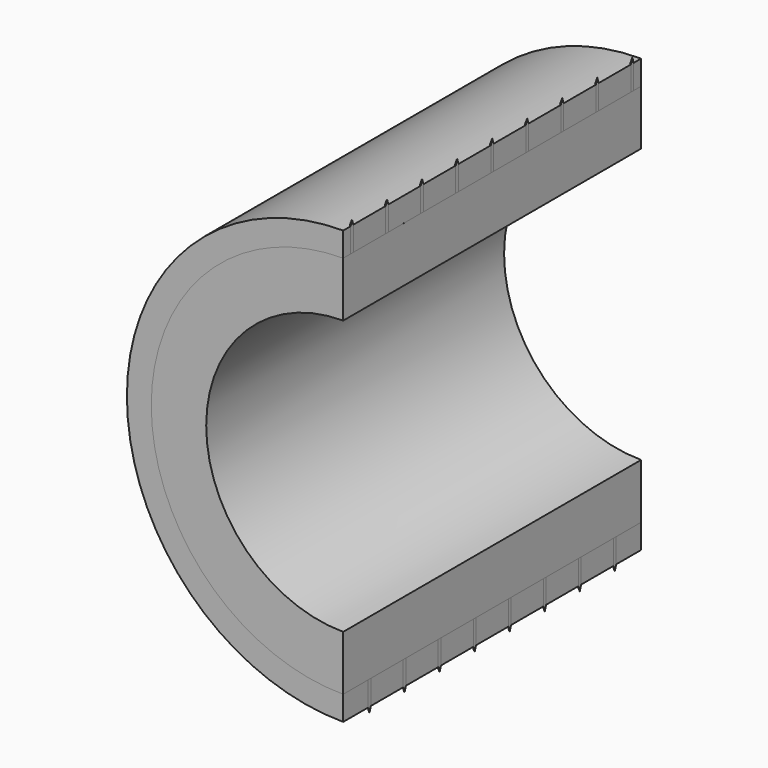
from build123d import *

# Parameters (mm, degrees)
F0_R           = 35.052
F0_R_2         = 25.019
F1_DEPTH       = 34
F2_R           = 39.5
F2_R_2         = 35.052
F3_DEPTH       = 34
F5_R           = 0.31
F6_DEPTH       = 25.4
F7_DEPTH       = 5.45
F8_SIZE2       = 1
F8_SIZE        = 0.31
F8_2_SIZE2     = 1
F8_2_SIZE      = 0.31
F8_3_SIZE2     = 1
F8_3_SIZE      = 0.31
F8_4_SIZE2     = 1
F8_4_SIZE      = 0.31
F8_5_SIZE2     = 1
F8_5_SIZE      = 0.31
F8_6_SIZE2     = 1
F8_6_SIZE      = 0.31
F8_7_SIZE2     = 1
F8_7_SIZE      = 0.31
F8_8_SIZE2     = 1
F8_8_SIZE      = 0.31
F8_9_SIZE2     = 1
F8_9_SIZE      = 0.31
F10_R          = 0.31
F11_DEPTH      = 25.4
F12_DEPTH      = 5.45
F13_SIZE2      = 0.31
F13_SIZE       = 1
F13_2_SIZE2    = 0.31
F13_2_SIZE     = 1
F13_3_SIZE2    = 0.31
F13_3_SIZE     = 1
F13_4_SIZE2    = 0.31
F13_4_SIZE     = 1
F13_5_SIZE2    = 0.31
F13_5_SIZE     = 1
F13_6_SIZE2    = 0.31
F13_6_SIZE     = 1
F13_7_SIZE2    = 0.31
F13_7_SIZE     = 1
F13_8_SIZE2    = 0.31
F13_8_SIZE     = 1
F14_W          = 45.4238131642
F14_H          = 107.2454452515
F15_DEPTH      = 34.0010001
F15_DEPTH_BACK = 34.0010001


with BuildPart() as f1:
    # F0 (on Front) → F1 (new body, symmetric)
    with BuildSketch(Plane.XZ):
        Circle(F0_R)
        Circle(F0_R_2, mode=Mode.SUBTRACT)
    extrude(amount=F1_DEPTH, both=True)


with BuildPart() as f3:
    # F2 (on Front) → F3 (new body, symmetric)
    with BuildSketch(Plane.XZ):
        Circle(F2_R)
        Circle(F2_R_2, mode=Mode.SUBTRACT)
    extrude(amount=F3_DEPTH, both=True)

    # F5 (on offset) → F6 (cut)
    with BuildSketch(Plane.XY.offset(35.052)):
        Circle(F5_R)
        with Locations((0, 8)):
            Circle(F5_R)
        with Locations((0, 16)):
            Circle(F5_R)
        with Locations((0, 24)):
            Circle(F5_R)
        with Locations((0, 32)):
            Circle(F5_R)
        with Locations((0, -8)):
            Circle(F5_R)
        with Locations((0, -16)):
            Circle(F5_R)
        with Locations((0, -24)):
            Circle(F5_R)
        with Locations((0, -32)):
            Circle(F5_R)
    extrude(amount=F6_DEPTH, mode=Mode.SUBTRACT)

    # F10 (on offset) → F11 (cut)
    with BuildSketch(Plane.XY.offset(-35.052)):
        with Locations((0, -4)):
            Circle(F10_R)
        with Locations((0, 4)):
            Circle(F10_R)
        with Locations((0, -12)):
            Circle(F10_R)
        with Locations((0, -20)):
            Circle(F10_R)
        with Locations((0, -28)):
            Circle(F10_R)
        with Locations((0, 12)):
            Circle(F10_R)
        with Locations((0, 20)):
            Circle(F10_R)
        with Locations((0, 28)):
            Circle(F10_R)
    extrude(amount=-F11_DEPTH, mode=Mode.SUBTRACT)


with BuildPart() as f7:
    # F5 (on offset) → F7 (new body)
    with BuildSketch(Plane.XY.offset(35.052)):
        Circle(F5_R)
    extrude(amount=F7_DEPTH)

    # F8#5
    f8_5_edges = [f7.edges().sort_by_distance(p)[0] for p in [
        (-0.31, 0, 40.502),
    ]]
    f8_5_side = f7.faces().sort_by_distance((0, 0, 40.502))[0]
    chamfer(f8_5_edges, length=F8_5_SIZE, length2=F8_5_SIZE2, reference=f8_5_side)


with BuildPart() as f7b:
    # F5 (on offset) → F7, piece 2 (new body)
    with BuildSketch(Plane.XY.offset(35.052)):
        with Locations((0, 8)):
            Circle(F5_R)
    extrude(amount=F7_DEPTH)

    # F8#6
    f8_6_edges = [f7b.edges().sort_by_distance(p)[0] for p in [
        (-0.31, 8, 40.502),
    ]]
    f8_6_side = f7b.faces().sort_by_distance((0, 8, 40.502))[0]
    chamfer(f8_6_edges, length=F8_6_SIZE, length2=F8_6_SIZE2, reference=f8_6_side)


with BuildPart() as f7c:
    # F5 (on offset) → F7, piece 3 (new body)
    with BuildSketch(Plane.XY.offset(35.052)):
        with Locations((0, 16)):
            Circle(F5_R)
    extrude(amount=F7_DEPTH)

    # F8#7
    f8_7_edges = [f7c.edges().sort_by_distance(p)[0] for p in [
        (-0.31, 16, 40.502),
    ]]
    f8_7_side = f7c.faces().sort_by_distance((0, 16, 40.502))[0]
    chamfer(f8_7_edges, length=F8_7_SIZE, length2=F8_7_SIZE2, reference=f8_7_side)


with BuildPart() as f7d:
    # F5 (on offset) → F7, piece 4 (new body)
    with BuildSketch(Plane.XY.offset(35.052)):
        with Locations((0, 24)):
            Circle(F5_R)
    extrude(amount=F7_DEPTH)

    # F8#8
    f8_8_edges = [f7d.edges().sort_by_distance(p)[0] for p in [
        (-0.31, 24, 40.502),
    ]]
    f8_8_side = f7d.faces().sort_by_distance((0, 24, 40.502))[0]
    chamfer(f8_8_edges, length=F8_8_SIZE, length2=F8_8_SIZE2, reference=f8_8_side)


with BuildPart() as f7e:
    # F5 (on offset) → F7, piece 5 (new body)
    with BuildSketch(Plane.XY.offset(35.052)):
        with Locations((0, 32)):
            Circle(F5_R)
    extrude(amount=F7_DEPTH)

    # F8#9
    f8_9_edges = [f7e.edges().sort_by_distance(p)[0] for p in [
        (-0.31, 32, 40.502),
    ]]
    f8_9_side = f7e.faces().sort_by_distance((0, 32, 40.502))[0]
    chamfer(f8_9_edges, length=F8_9_SIZE, length2=F8_9_SIZE2, reference=f8_9_side)


with BuildPart() as f7f:
    # F5 (on offset) → F7, piece 6 (new body)
    with BuildSketch(Plane.XY.offset(35.052)):
        with Locations((0, -8)):
            Circle(F5_R)
    extrude(amount=F7_DEPTH)

    # F8#4
    f8_4_edges = [f7f.edges().sort_by_distance(p)[0] for p in [
        (-0.31, -8, 40.502),
    ]]
    f8_4_side = f7f.faces().sort_by_distance((0, -8, 40.502))[0]
    chamfer(f8_4_edges, length=F8_4_SIZE, length2=F8_4_SIZE2, reference=f8_4_side)


with BuildPart() as f7g:
    # F5 (on offset) → F7, piece 7 (new body)
    with BuildSketch(Plane.XY.offset(35.052)):
        with Locations((0, -16)):
            Circle(F5_R)
    extrude(amount=F7_DEPTH)

    # F8#3
    f8_3_edges = [f7g.edges().sort_by_distance(p)[0] for p in [
        (-0.31, -16, 40.502),
    ]]
    f8_3_side = f7g.faces().sort_by_distance((0, -16, 40.502))[0]
    chamfer(f8_3_edges, length=F8_3_SIZE, length2=F8_3_SIZE2, reference=f8_3_side)


with BuildPart() as f7h:
    # F5 (on offset) → F7, piece 8 (new body)
    with BuildSketch(Plane.XY.offset(35.052)):
        with Locations((0, -24)):
            Circle(F5_R)
    extrude(amount=F7_DEPTH)

    # F8#2
    f8_2_edges = [f7h.edges().sort_by_distance(p)[0] for p in [
        (-0.31, -24, 40.502),
    ]]
    f8_2_side = f7h.faces().sort_by_distance((0, -24, 40.502))[0]
    chamfer(f8_2_edges, length=F8_2_SIZE, length2=F8_2_SIZE2, reference=f8_2_side)


with BuildPart() as f7i:
    # F5 (on offset) → F7, piece 9 (new body)
    with BuildSketch(Plane.XY.offset(35.052)):
        with Locations((0, -32)):
            Circle(F5_R)
    extrude(amount=F7_DEPTH)

    # F8
    f8_edges = [f7i.edges().sort_by_distance(p)[0] for p in [
        (-0.31, -32, 40.502),
    ]]
    f8_side = f7i.faces().sort_by_distance((0, -32, 40.502))[0]
    chamfer(f8_edges, length=F8_SIZE, length2=F8_SIZE2, reference=f8_side)


with BuildPart() as f12:
    # F10 (on offset) → F12 (new body)
    with BuildSketch(Plane.XY.offset(-35.052)):
        with Locations((0, -4)):
            Circle(F10_R)
    extrude(amount=-F12_DEPTH)

    # F13#4
    f13_4_edges = [f12.edges().sort_by_distance(p)[0] for p in [
        (-0.31, -4, -40.502),
    ]]
    f13_4_side = f12.faces().sort_by_distance((-0.31, -4, -37.777))[0]
    chamfer(f13_4_edges, length=F13_4_SIZE, length2=F13_4_SIZE2, reference=f13_4_side)


with BuildPart() as f12b:
    # F10 (on offset) → F12, piece 2 (new body)
    with BuildSketch(Plane.XY.offset(-35.052)):
        with Locations((0, 4)):
            Circle(F10_R)
    extrude(amount=-F12_DEPTH)

    # F13#5
    f13_5_edges = [f12b.edges().sort_by_distance(p)[0] for p in [
        (-0.31, 4, -40.502),
    ]]
    f13_5_side = f12b.faces().sort_by_distance((-0.31, 4, -37.777))[0]
    chamfer(f13_5_edges, length=F13_5_SIZE, length2=F13_5_SIZE2, reference=f13_5_side)


with BuildPart() as f12c:
    # F10 (on offset) → F12, piece 3 (new body)
    with BuildSketch(Plane.XY.offset(-35.052)):
        with Locations((0, -12)):
            Circle(F10_R)
    extrude(amount=-F12_DEPTH)

    # F13#3
    f13_3_edges = [f12c.edges().sort_by_distance(p)[0] for p in [
        (-0.31, -12, -40.502),
    ]]
    f13_3_side = f12c.faces().sort_by_distance((-0.31, -12, -37.777))[0]
    chamfer(f13_3_edges, length=F13_3_SIZE, length2=F13_3_SIZE2, reference=f13_3_side)


with BuildPart() as f12d:
    # F10 (on offset) → F12, piece 4 (new body)
    with BuildSketch(Plane.XY.offset(-35.052)):
        with Locations((0, -20)):
            Circle(F10_R)
    extrude(amount=-F12_DEPTH)

    # F13#2
    f13_2_edges = [f12d.edges().sort_by_distance(p)[0] for p in [
        (-0.31, -20, -40.502),
    ]]
    f13_2_side = f12d.faces().sort_by_distance((-0.31, -20, -37.777))[0]
    chamfer(f13_2_edges, length=F13_2_SIZE, length2=F13_2_SIZE2, reference=f13_2_side)


with BuildPart() as f12e:
    # F10 (on offset) → F12, piece 5 (new body)
    with BuildSketch(Plane.XY.offset(-35.052)):
        with Locations((0, -28)):
            Circle(F10_R)
    extrude(amount=-F12_DEPTH)

    # F13
    f13_edges = [f12e.edges().sort_by_distance(p)[0] for p in [
        (-0.31, -28, -40.502),
    ]]
    f13_side = f12e.faces().sort_by_distance((-0.31, -28, -37.777))[0]
    chamfer(f13_edges, length=F13_SIZE, length2=F13_SIZE2, reference=f13_side)


with BuildPart() as f12f:
    # F10 (on offset) → F12, piece 6 (new body)
    with BuildSketch(Plane.XY.offset(-35.052)):
        with Locations((0, 12)):
            Circle(F10_R)
    extrude(amount=-F12_DEPTH)

    # F13#6
    f13_6_edges = [f12f.edges().sort_by_distance(p)[0] for p in [
        (-0.31, 12, -40.502),
    ]]
    f13_6_side = f12f.faces().sort_by_distance((-0.31, 12, -37.777))[0]
    chamfer(f13_6_edges, length=F13_6_SIZE, length2=F13_6_SIZE2, reference=f13_6_side)


with BuildPart() as f12g:
    # F10 (on offset) → F12, piece 7 (new body)
    with BuildSketch(Plane.XY.offset(-35.052)):
        with Locations((0, 20)):
            Circle(F10_R)
    extrude(amount=-F12_DEPTH)

    # F13#7
    f13_7_edges = [f12g.edges().sort_by_distance(p)[0] for p in [
        (-0.31, 20, -40.502),
    ]]
    f13_7_side = f12g.faces().sort_by_distance((-0.31, 20, -37.777))[0]
    chamfer(f13_7_edges, length=F13_7_SIZE, length2=F13_7_SIZE2, reference=f13_7_side)


with BuildPart() as f12h:
    # F10 (on offset) → F12, piece 8 (new body)
    with BuildSketch(Plane.XY.offset(-35.052)):
        with Locations((0, 28)):
            Circle(F10_R)
    extrude(amount=-F12_DEPTH)

    # F13#8
    f13_8_edges = [f12h.edges().sort_by_distance(p)[0] for p in [
        (-0.31, 28, -40.502),
    ]]
    f13_8_side = f12h.faces().sort_by_distance((-0.31, 28, -37.777))[0]
    chamfer(f13_8_edges, length=F13_8_SIZE, length2=F13_8_SIZE2, reference=f13_8_side)


with BuildPart() as f15_tool:
    # F14 (on Front) → F15 (new body, two sides)
    with BuildSketch(Plane.XZ) as f15_sk:
        with Locations((22.7119065821, 1.5078447759)):
            Rectangle(F14_W, F14_H)
    extrude(amount=-F15_DEPTH)
    extrude(f15_sk.sketch, amount=F15_DEPTH_BACK)


with BuildPart() as f1_1:
    add(f1.part)

    # F15: cut by f15_tool
    add(f15_tool.part, mode=Mode.SUBTRACT)


with BuildPart() as f3_1:
    add(f3.part)

    # F15: cut by f15_tool
    add(f15_tool.part, mode=Mode.SUBTRACT)


with BuildPart() as f7_1:
    add(f7.part)

    # F15: cut by f15_tool
    add(f15_tool.part, mode=Mode.SUBTRACT)


with BuildPart() as f7b_1:
    add(f7b.part)

    # F15: cut by f15_tool
    add(f15_tool.part, mode=Mode.SUBTRACT)


with BuildPart() as f7c_1:
    add(f7c.part)

    # F15: cut by f15_tool
    add(f15_tool.part, mode=Mode.SUBTRACT)


with BuildPart() as f7d_1:
    add(f7d.part)

    # F15: cut by f15_tool
    add(f15_tool.part, mode=Mode.SUBTRACT)


with BuildPart() as f7e_1:
    add(f7e.part)

    # F15: cut by f15_tool
    add(f15_tool.part, mode=Mode.SUBTRACT)


with BuildPart() as f7f_1:
    add(f7f.part)

    # F15: cut by f15_tool
    add(f15_tool.part, mode=Mode.SUBTRACT)


with BuildPart() as f7g_1:
    add(f7g.part)

    # F15: cut by f15_tool
    add(f15_tool.part, mode=Mode.SUBTRACT)


with BuildPart() as f7h_1:
    add(f7h.part)

    # F15: cut by f15_tool
    add(f15_tool.part, mode=Mode.SUBTRACT)


with BuildPart() as f7i_1:
    add(f7i.part)

    # F15: cut by f15_tool
    add(f15_tool.part, mode=Mode.SUBTRACT)


with BuildPart() as f12_1:
    add(f12.part)

    # F15: cut by f15_tool
    add(f15_tool.part, mode=Mode.SUBTRACT)


with BuildPart() as f12b_1:
    add(f12b.part)

    # F15: cut by f15_tool
    add(f15_tool.part, mode=Mode.SUBTRACT)


with BuildPart() as f12c_1:
    add(f12c.part)

    # F15: cut by f15_tool
    add(f15_tool.part, mode=Mode.SUBTRACT)


with BuildPart() as f12d_1:
    add(f12d.part)

    # F15: cut by f15_tool
    add(f15_tool.part, mode=Mode.SUBTRACT)


with BuildPart() as f12e_1:
    add(f12e.part)

    # F15: cut by f15_tool
    add(f15_tool.part, mode=Mode.SUBTRACT)


with BuildPart() as f12f_1:
    add(f12f.part)

    # F15: cut by f15_tool
    add(f15_tool.part, mode=Mode.SUBTRACT)


with BuildPart() as f12g_1:
    add(f12g.part)

    # F15: cut by f15_tool
    add(f15_tool.part, mode=Mode.SUBTRACT)


with BuildPart() as f12h_1:
    add(f12h.part)

    # F15: cut by f15_tool
    add(f15_tool.part, mode=Mode.SUBTRACT)


solid = Compound([f1_1.part, f3_1.part, f7_1.part, f7b_1.part, f7c_1.part, f7d_1.part, f7e_1.part, f7f_1.part, f7g_1.part, f7h_1.part, f7i_1.part, f12_1.part, f12b_1.part, f12c_1.part, f12d_1.part, f12e_1.part, f12f_1.part, f12g_1.part, f12h_1.part])
